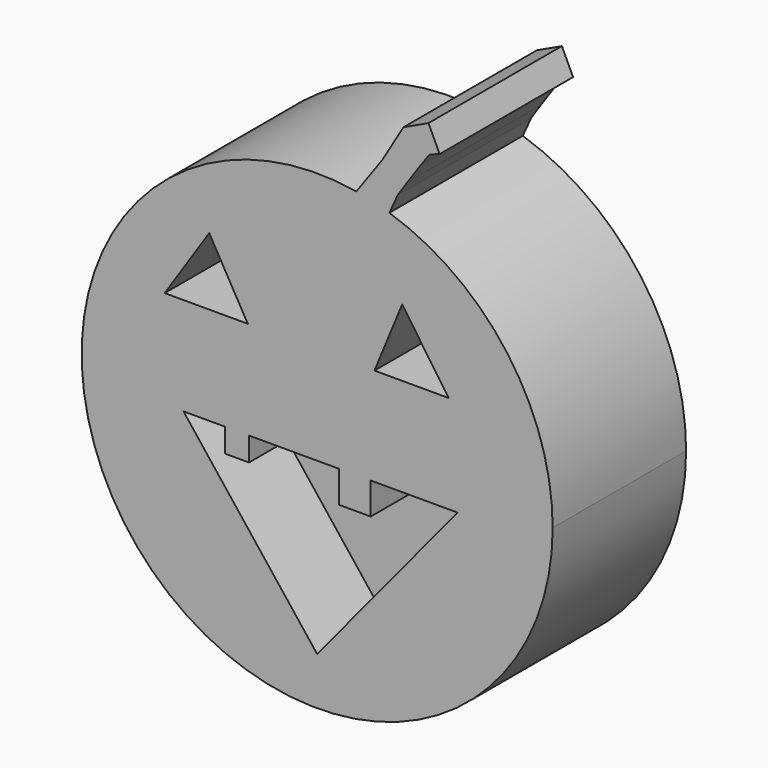
from build123d import *

# Parameters (mm, degrees)
F1_DEPTH = 25.4
F3_DEPTH = 12.7
F5_DEPTH = 12.7
F6_W     = 3.653213
F6_H     = 3.617645
F6_W_2   = 4.803298
F6_H_2   = 4.835383
F7_DEPTH = 12.7


with BuildPart() as f1:
    # F0 (on Front) → F1 (new body)
    with BuildSketch(Plane.XZ):
        with BuildLine():
            ThreePointArc((5.963441, 35.366944), (-27.388586, -23.157045), (35.866187, 0))
            ThreePointArc((35.866187, 0), (28.988599, 21.119765), (10.993484, 34.13981))
            ThreePointArc((10.993484, 34.13981), (8.500635, 34.844261), (5.963441, 35.366944))
        make_face()
        with BuildLine():
            ThreePointArc((5.963441, 35.366944), (8.500635, 34.844261), (10.993484, 34.13981))
            Line((10.993484, 34.13981), (12.279672, 36.955047))
            Line((12.279672, 36.955047), (13.718993, 39.114028))
            Line((13.718993, 39.114028), (15.69806, 41.992676))
            Line((15.69806, 41.992676), (17.137382, 43.97174))
            Line((17.137382, 43.97174), (18.651877, 44.50046))
            Line((18.651877, 44.50046), (16.949486, 48.106024))
            Line((16.949486, 48.106024), (13.131301, 46.303242))
            Line((13.131301, 46.303242), (9.940774, 40.91318))
            Line((9.940774, 40.91318), (5.963441, 35.366944))
        make_face()
    extrude(amount=F1_DEPTH)

    # F2 (on face) → F3 (cut)
    with BuildSketch(Plane.XZ.offset(25.4)):
        Polygon((-10.563217, 12.250198), (-16.440853, 22.498386), (-23.222743, 12.250198), align=None)
        Polygon((20.030638, 12.250198), (12.94733, 22.498386), (8.72749, 12.250198), align=None)
    extrude(amount=-F3_DEPTH, mode=Mode.SUBTRACT)

    # F4 (on face) → F5 (cut)
    with BuildSketch(Plane.XZ.offset(25.4)):
        Polygon((21.387015, -2.669957), (-20.359278, -2.669957), (0, -28.591841), align=None)
    extrude(amount=-F5_DEPTH, mode=Mode.SUBTRACT)

    # F6 (on face) → F7 (join)
    with BuildSketch(Plane.XZ.offset(12.7)):
        with Locations((-12.206394, -4.478779)):
            Rectangle(F6_W, F6_H)
        with Locations((5.755238, -5.087648)):
            Rectangle(F6_W_2, F6_H_2)
    extrude(amount=F7_DEPTH)


solid = f1.part
